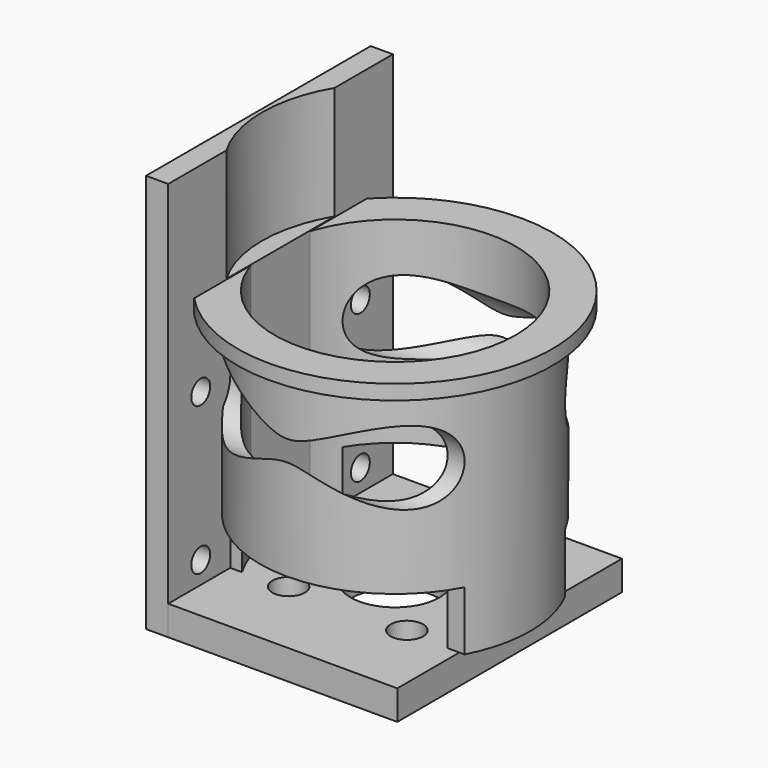
from build123d import *

# Parameters (mm, degrees)
SKETCH002_R       = 18.3
SKETCH002_R_2     = 16.3
PAD002_DEPTH      = 33.6
SKETCH003_R       = 5
SKETCH003_W       = 10
SKETCH003_H       = 10
POCKET_DEPTH      = 18.301
POCKET_DEPTH_BACK = 18.301
SKETCH005_R       = 16.3
PAD003_DEPTH      = 1
SKETCH_W          = 31
SKETCH_H          = 38
SKETCH_R          = 6
SKETCH_R_2        = 2.2
PAD_DEPTH         = 4
SKETCH001_W       = 3
SKETCH001_H       = 38
PAD001_DEPTH      = 50
PAD001_DEPTH_BACK = 4
SKETCH004_R       = 1.6
POCKET001_DEPTH   = 18.501
POCKET002_DEPTH   = 15.3


with BuildPart() as obj1:
    # Sketch002 → Pad002 (new body)
    with BuildSketch(Plane.XY):
        Circle(SKETCH002_R)
        Circle(SKETCH002_R_2, mode=Mode.SUBTRACT)
    extrude(amount=PAD002_DEPTH)

    # Sketch003 → Pocket (cut, two sides)
    with BuildSketch(Plane.YZ) as pocket_sk:
        with Locations((13.5, 23)):
            Circle(SKETCH003_R)
        with Locations((-13.5, 23)):
            Circle(SKETCH003_R)
        with Locations((13.5, 3)):
            Rectangle(SKETCH003_W, SKETCH003_H)
        with Locations((-13.5, 3)):
            Rectangle(SKETCH003_W, SKETCH003_H)
    extrude(amount=-POCKET_DEPTH, mode=Mode.SUBTRACT)
    extrude(pocket_sk.sketch, amount=POCKET_DEPTH_BACK, mode=Mode.SUBTRACT)

    # Sketch005 → Pad003 (join, symmetric)
    with BuildSketch(Plane.XY.offset(33.6)):
        with BuildLine():
            ThreePointArc((-18, -11.388152), (21.3, 0), (-18, 11.388152))
            Line((-18, 11.388152), (-18, -11.388152))
        make_face()
        Circle(SKETCH005_R, mode=Mode.SUBTRACT)
    extrude(amount=PAD003_DEPTH, both=True)


with BuildPart() as obj2:
    # Sketch → Pad (new body)
    with BuildSketch(Plane.XY):
        Rectangle(SKETCH_W, SKETCH_H)
        Circle(SKETCH_R, mode=Mode.SUBTRACT)
        with Locations((8, 8)):
            Circle(SKETCH_R_2, mode=Mode.SUBTRACT)
        with Locations((8, -8)):
            Circle(SKETCH_R_2, mode=Mode.SUBTRACT)
        with Locations((-8, 8)):
            Circle(SKETCH_R_2, mode=Mode.SUBTRACT)
        with Locations((-8, -8)):
            Circle(SKETCH_R_2, mode=Mode.SUBTRACT)
    extrude(amount=-PAD_DEPTH)


with BuildPart() as obj3:
    # Sketch001 → Pad001 (new body, two sides)
    with BuildSketch(Plane.XY) as pad001_sk:
        with Locations((-17, 0)):
            Rectangle(SKETCH001_W, SKETCH001_H)
    extrude(amount=PAD001_DEPTH)
    extrude(pad001_sk.sketch, amount=-PAD001_DEPTH_BACK)

    # Sketch004 → Pocket001 (cut, through all)
    with BuildSketch(Plane.YZ):
        with Locations((13.5, 3)):
            Circle(SKETCH004_R)
        with Locations((-13.5, 3)):
            Circle(SKETCH004_R)
        with Locations((-13.5, 23)):
            Circle(SKETCH004_R)
        with Locations((13.5, 23)):
            Circle(SKETCH004_R)
    extrude(amount=-POCKET001_DEPTH, mode=Mode.SUBTRACT)

    # Sketch006 (on Face5 of Pocket001) → Pocket002 (cut)
    with BuildSketch(Plane.XY.offset(50)):
        with BuildLine():
            Line((-15.172828, 9.68428), (-15.172828, -9.68428))
            ThreePointArc((-15.172828, 9.68428), (-18, 0), (-15.172828, -9.68428))
        make_face()
    extrude(amount=-POCKET002_DEPTH, mode=Mode.SUBTRACT)


solid = Compound([obj1.part, obj2.part, obj3.part])
